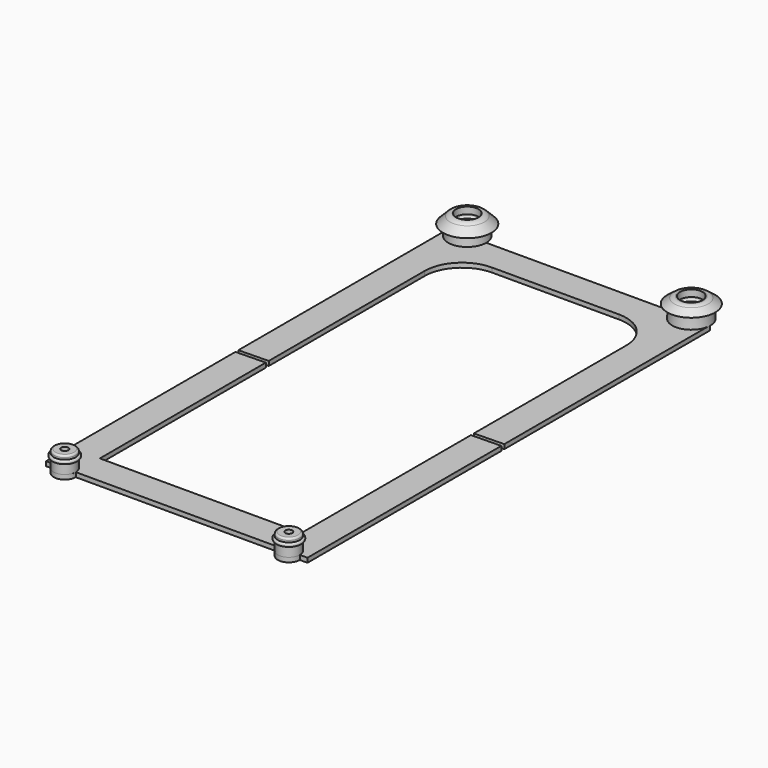
from build123d import *

# Parameters (mm, degrees)
F5_DEPTH = 1.2
F6_R     = 2
F7_R     = 2
F8_R     = 10
F11_R    = 0.5


with BuildPart() as f1:
    # F0 (on Front) → F1 (revolve)
    with BuildSketch(Plane.XZ):
        with BuildLine():
            Line((-3, 4.7), (-3, 6.5))
            Line((-3, 6.5), (-4, 6.5))
            Line((-4, 6.5), (-6.5, 4))
            Line((-6.5, 4), (-4.9, 4.4))
            Line((-4.9, 4.4), (-5.1, 1.2))
            Line((-5.1, 1.2), (-3, 1.2))
            Line((-3, 1.2), (-3, 3.7))
            ThreePointArc((-3, 3.7), (-3.5, 4.2), (-3, 4.7))
        make_face()
    revolve(axis=Axis((0, 0, 2.8096139431), (0, 0, 1)))



with BuildPart() as f3:
    # F2 (on Front) → F3 (revolve)
    with BuildSketch(Plane.XZ):
        with BuildLine():
            Line((54.9, 1.2), (57, 1.2))
            Line((57, 1.2), (57, 3.7))
            ThreePointArc((57, 3.7), (56.5, 4.2), (57, 4.7))
            Line((57, 4.7), (57, 6.5))
            Line((57, 6.5), (56, 6.5))
            Line((56, 6.5), (53.6, 4.7))
            Line((53.6, 4.7), (55.1, 4.2))
            Line((55.1, 4.2), (54.9, 1.2))
        make_face()
    revolve(axis=Axis((60, 0, -5.4624276236), (0, 0, -1)))


with BuildPart() as f1_1:
    add(f1.part)

    add(f3.part)  # F5 merges F3
    # F4 (on Top) → F5 (join)
    with BuildSketch(Plane.XY):
        with BuildLine():
            Line((-5, 0), (-5, -8))
            Line((-5, -8), (-5, -70.365))
            Line((-5, -70.365), (3, -70.1925278647))
            Line((3, -70.1925278647), (3, -8))
            Line((3, -8), (57, -8))
            Line((57, -8), (57, -69.0283409516))
            Line((57, -69.0283409516), (65, -68.8558688164))
            Line((65, -68.8558688164), (65, -8))
            Line((65, -8), (65, 0))
            Line((65, 0), (63, 0))
            ThreePointArc((63, 0), (62.1213203436, -2.1213203436), (60, -3))
            ThreePointArc((60, -3), (57.8786796564, -2.1213203436), (57, 0))
            Line((57, 0), (3, 0))
            ThreePointArc((3, 0), (2.1213203436, -2.1213203436), (0, -3))
            ThreePointArc((0, -3), (-2.1213203436, -2.1213203436), (-3, 0))
            Line((-3, 0), (-5, 0))
        make_face()
    extrude(amount=F5_DEPTH)

    # F6
    f6_edges = [f1_1.edges().sort_by_distance(p)[0] for p in [
        (64, 0, 6.5),
    ]]
    fillet(f6_edges, radius=F6_R)

    # F7
    f7_edges = [f1_1.edges().sort_by_distance(p)[0] for p in [
        (4, 0, 6.5),
    ]]
    fillet(f7_edges, radius=F7_R)

    # F8
    f8_edges = [f1_1.edges().sort_by_distance(p)[0] for p in [
        (3, -8, 0.6),
        (57, -8, 0.6),
    ]]
    fillet(f8_edges, radius=F8_R)


with BuildPart() as f5:
    # F4 (on Top) → F5, piece 2 (new body)
    with BuildSketch(Plane.XY):
        with BuildLine():
            ThreePointArc((57.05, -134.73), (60, -137.68), (62.95, -134.73))
            ThreePointArc((62.95, -134.73), (60, -131.78), (57.05, -134.73))
        make_face()
        with BuildLine():
            ThreePointArc((57.05, -134.73), (60, -131.78), (62.95, -134.73))
            Line((62.95, -134.73), (65, -134.73))
            Line((65, -134.73), (65, -69.8558688164))
            Line((65, -69.8558688164), (57, -70.0283409516))
            Line((57, -70.0283409516), (57, -126.73))
            Line((57, -126.73), (3, -126.73))
            Line((3, -126.73), (3, -71.1925278647))
            Line((3, -71.1925278647), (-5, -71.365))
            Line((-5, -71.365), (-5, -134.73))
            Line((-5, -134.73), (-2.95, -134.73))
            ThreePointArc((-2.95, -134.73), (0, -131.78), (2.95, -134.73))
            Line((2.95, -134.73), (57.05, -134.73))
        make_face()
        with BuildLine():
            ThreePointArc((-2.95, -134.73), (0, -137.68), (2.95, -134.73))
            ThreePointArc((2.95, -134.73), (0, -131.78), (-2.95, -134.73))
        make_face()
    extrude(amount=F5_DEPTH)


with BuildPart() as f10:
    # F9 (on Right) → F10 (revolve)
    with BuildSketch(Plane.YZ):
        with BuildLine():
            Line((-134.73, 1.2), (-134.73, 2.7))
            Line((-134.73, 2.7), (-135.68, 2.7))
            Line((-135.68, 2.7), (-135.68, 5.7))
            Line((-135.68, 5.7), (-137.68, 5.7))
            Line((-137.68, 5.7), (-137.68, 4.7))
            ThreePointArc((-137.68, 4.7), (-138.18, 4.2), (-137.68, 3.7))
            Line((-137.68, 3.7), (-137.68, 1.2))
            Line((-137.68, 1.2), (-134.73, 1.2))
        make_face()
    revolve(axis=Axis((0, -134.73, 1.2), (0, 0, -1)))

    # F11
    f11_edges = [f10.edges().sort_by_distance(p)[0] for p in [
        (0, -131.78, 5.7),
    ]]
    fillet(f11_edges, radius=F11_R)


with BuildPart() as f12_1:
    # F12: copy of F10
    add(f10.part.moved(Location((60, 0, 0))))


solid = Compound([f1_1.part, f5.part, f10.part, f12_1.part])
